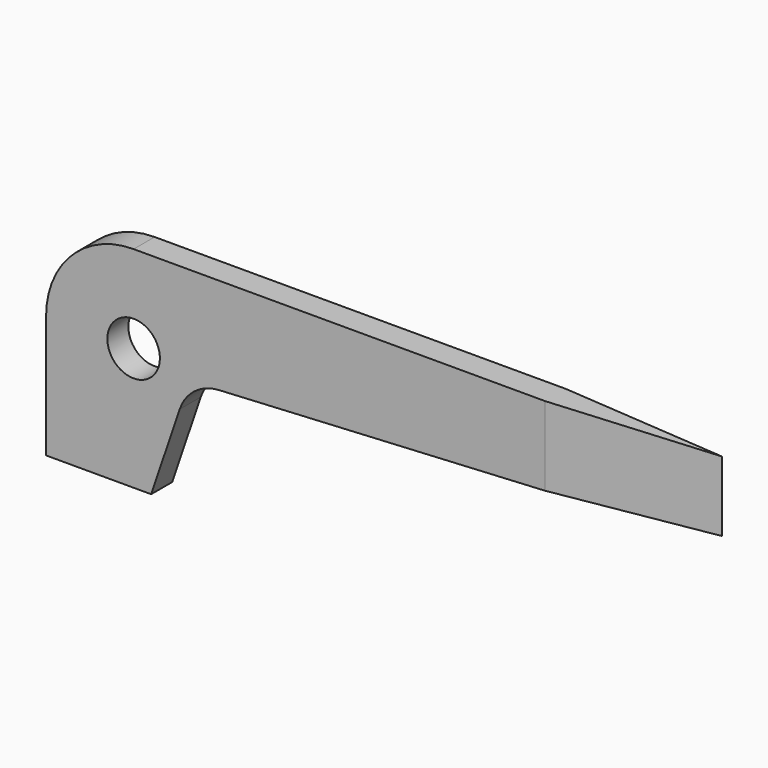
from build123d import *

# Parameters (mm, degrees)
F1_DEPTH = 2.38125
F2_R     = 2.38125
F3_DEPTH = 25.4
F5_DEPTH = 25.4


with BuildPart() as f1:
    # F0 (on Front) → F1 (new body)
    with BuildSketch(Plane.XZ):
        with BuildLine():
            Line((60.325, 19.05), (7.9375, 19.05))
            ThreePointArc((7.9375, 19.05), (2.32484, 16.72516), (0, 11.1125))
            Line((0, 11.1125), (0, 0))
            Line((0, 0), (9.525, 0))
            Line((9.525, 0), (12.117365, 7.627166))
            ThreePointArc((12.117365, 7.627166), (13.478615, 9.513592), (15.663196, 10.313094))
            Line((15.663196, 10.313094), (60.325, 12.7))
            Line((60.325, 12.7), (60.325, 19.05))
        make_face()
    extrude(amount=F1_DEPTH)

    # F2 (on face) → F3 (cut)
    with BuildSketch(Plane.XZ.offset(2.38125)):
        with Locations((7.9375, 11.1125)):
            Circle(F2_R)
    extrude(amount=-F3_DEPTH, mode=Mode.SUBTRACT)

    # F4 (on face) → F5 (cut)
    with BuildSketch(Plane.XY.offset(19.05)):
        Polygon((60.325, -2.38125), (60.325, -1.190625), (45.24375, -2.38125), align=None)
        Polygon((60.325, 0), (45.24375, 0), (60.325, -1.190625), align=None)
    extrude(amount=-F5_DEPTH, mode=Mode.SUBTRACT)


solid = f1.part
